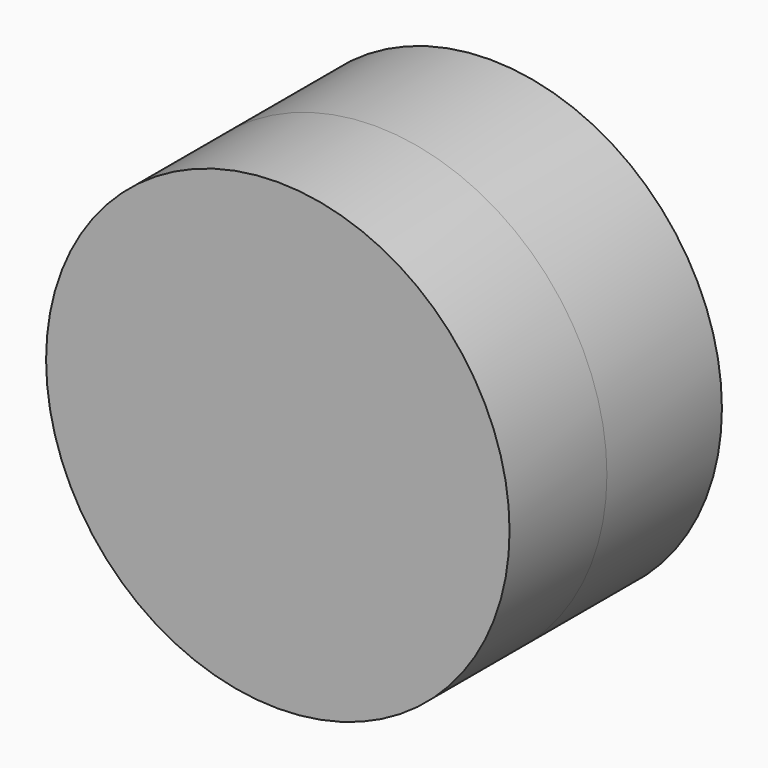
from build123d import *

# Parameters (mm, degrees)
F0_R      = 48.366342
F1_DEPTH  = 25.4
F1_FACE_R = 48.366342
F2_DEPTH  = 30


with BuildPart() as f1:
    # F0 (on Front) → F1 (new body)
    with BuildSketch(Plane.XZ):
        Circle(F0_R)
    extrude(amount=F1_DEPTH)


with BuildPart() as f2:
    # F1_face (on face) → F2 (new body)
    with BuildSketch(Plane(origin=(0, 0, 0), x_dir=(1, 0, 0), z_dir=(0, 1, 0))):
        Circle(F1_FACE_R)
    extrude(amount=F2_DEPTH)


solid = Compound([f1.part, f2.part])
